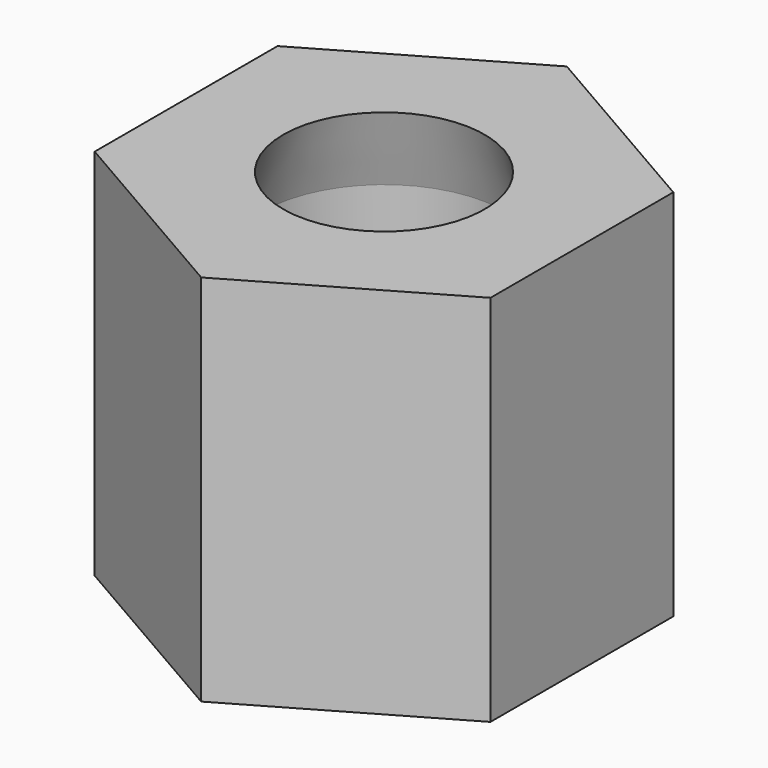
from build123d import *

# Parameters (mm, degrees)
F2_R     = 30
F3_DEPTH = 15.001


with BuildPart() as f1:
    # F0 (on Front) → F1 (revolve)
    with BuildSketch(Plane.XZ):
        Polygon((-5.5, -4), (-4.9, 0), (-4.9, 8), (-4.05, 11), (-4.9, 11), (-30, 11), (-30, -4), align=None)
    revolve(axis=Axis((0, 0, 7.003904), (0, 0, 1)))

    # F2 (on face) → F3 (cut, through all)
    with BuildSketch(Plane.XY.offset(11)):
        Circle(F2_R)
        Polygon((0, 9.179869), (7.95, 4.589935), (7.95, -4.589935), (0, -9.179869), (-7.95, -4.589935), (-7.95, 4.589935), align=None, mode=Mode.SUBTRACT)
    extrude(amount=-F3_DEPTH, mode=Mode.SUBTRACT)


solid = f1.part
